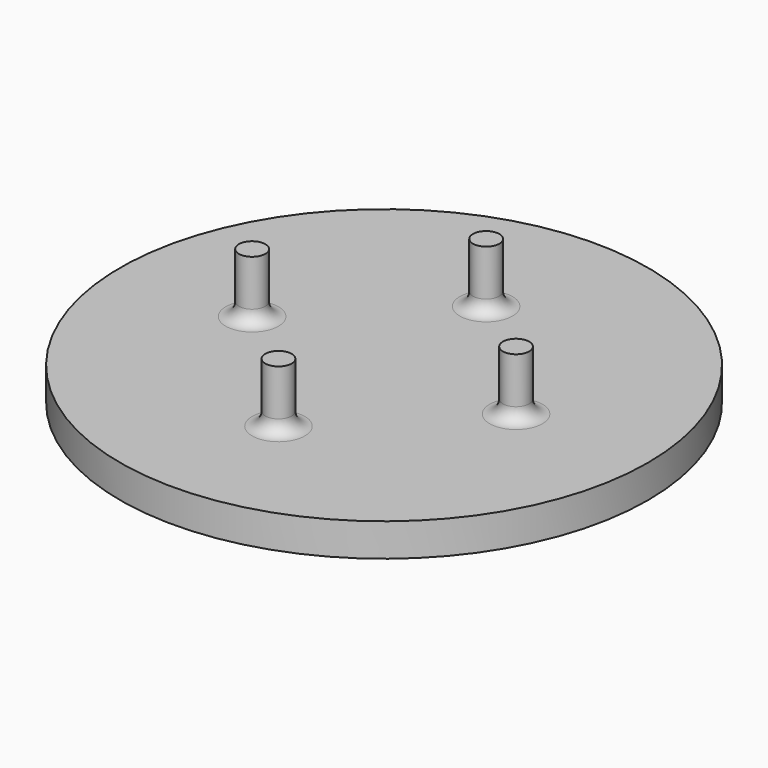
from build123d import *

# Parameters (mm, degrees)
F1_R     = 2
F2_DEPTH = 14
F0_R     = 40
F3_DEPTH = 5
F5_R     = 2


with BuildPart() as f2:
    # F1 (on face) → F2 (new body)
    with BuildSketch(Plane.XY):
        with Locations((0, 19.332828)):
            Circle(F1_R)
        with Locations((-20, 0)):
            Circle(F1_R)
        with Locations((20, 0)):
            Circle(F1_R)
        with Locations((0, -20)):
            Circle(F1_R)
    extrude(amount=F2_DEPTH)


with BuildPart() as f3:
    # F0 (on Top) → F3 (new body)
    with BuildSketch(Plane.XY):
        Circle(F0_R)
    extrude(amount=F3_DEPTH)

    # F4: union F2
    add(f2.part)

    # F5
    f5_edges = [f3.edges().sort_by_distance(p)[0] for p in [
        (-2, -20, 5),
        (-22, 0, 5),
        (18, 0, 5),
        (-2, 19.332828, 5),
    ]]
    fillet(f5_edges, radius=F5_R)


solid = f3.part
